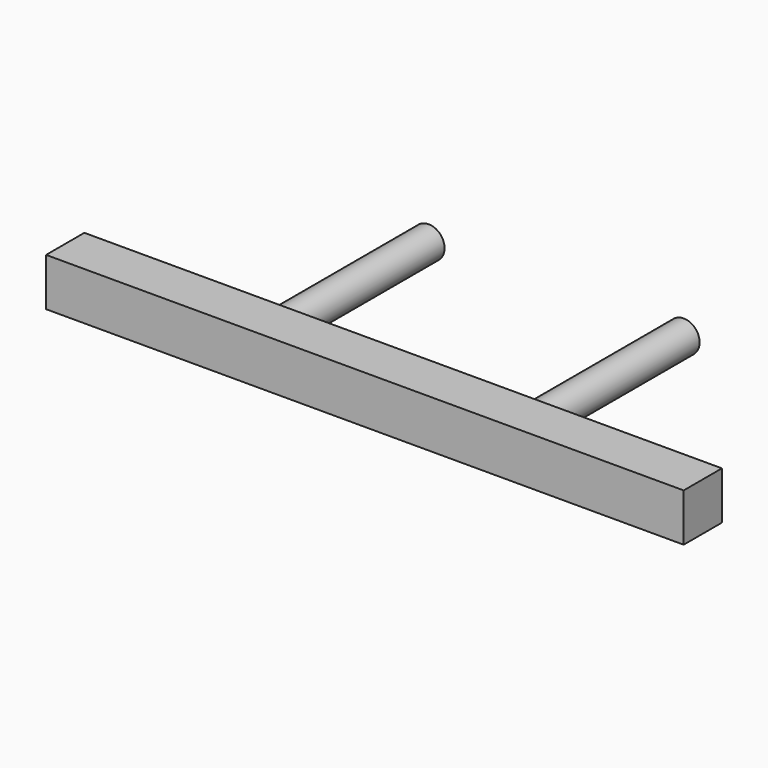
from build123d import *

# Parameters (mm, degrees)
F1_W     = 254
F1_H     = 19.05
F2_DEPTH = 19.05
F3_R     = 6.35
F4_DEPTH = 76.2


with BuildPart() as f2:
    # F1 (on face) → F2 (new body)
    with BuildSketch(Plane.XZ):
        with Locations((0, 9.525)):
            Rectangle(F1_W, F1_H)
    extrude(amount=F2_DEPTH)


with BuildPart() as f4:
    # F3 (on Front) → F4 (new body)
    with BuildSketch(Plane.XZ):
        with Locations((50.8, 9.525)):
            Circle(F3_R)
        with Locations((-50.8, 9.525)):
            Circle(F3_R)
    extrude(amount=-F4_DEPTH)


solid = Compound([f2.part, f4.part])
